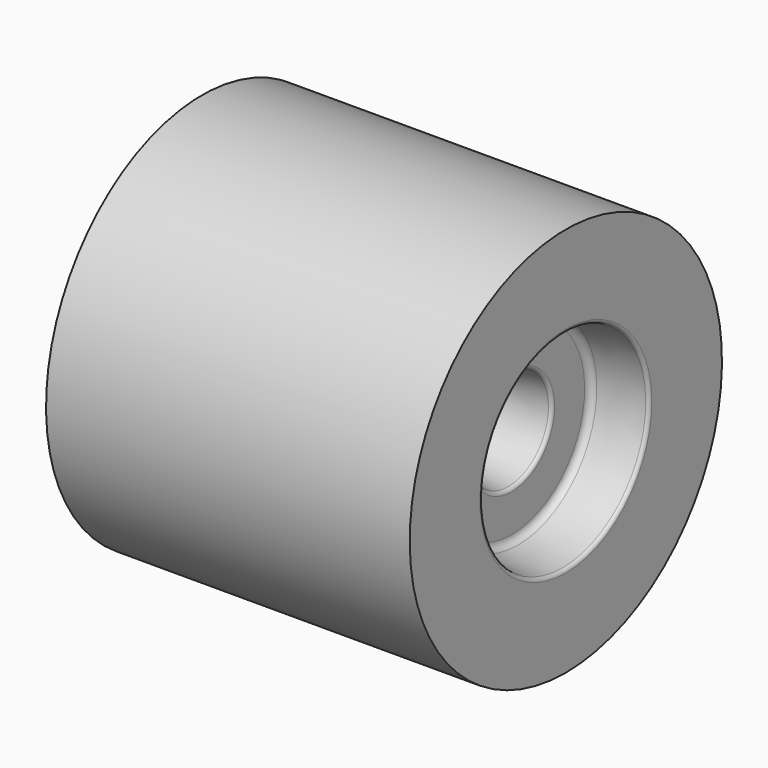
from build123d import *


with BuildPart() as f1:
    # F0 (on Front) → F1 (revolve)
    with BuildSketch(Plane.XZ):
        with BuildLine():
            Line((0, 53.65608), (0, 0))
            Line((0, 0), (100, 0))
            Line((100, 0), (100, 24.115275))
            ThreePointArc((100, 24.115275), (99.748956, 24.777895), (99.121869, 25.107821))
            Line((99.121869, 25.107821), (86.868069, 26.612398))
            ThreePointArc((86.868069, 26.612398), (85.613896, 27.272251), (85.111808, 28.597491))
            Line((85.111808, 28.597491), (85.111808, 38.943315))
            ThreePointArc((85.111808, 38.943315), (84.860763, 39.605935), (84.233677, 39.935861))
            Line((84.233677, 39.935861), (71.979877, 41.440439))
            ThreePointArc((71.979877, 41.440439), (70.725704, 42.100291), (70.223615, 43.425531))
            Line((70.223615, 43.425531), (70.223615, 53.65608))
            Line((70.223615, 53.65608), (0, 53.65608))
        make_face()
    revolve(axis=Axis((35.111808, 0, 53.65608), (-1, 0, 0)))


solid = f1.part
